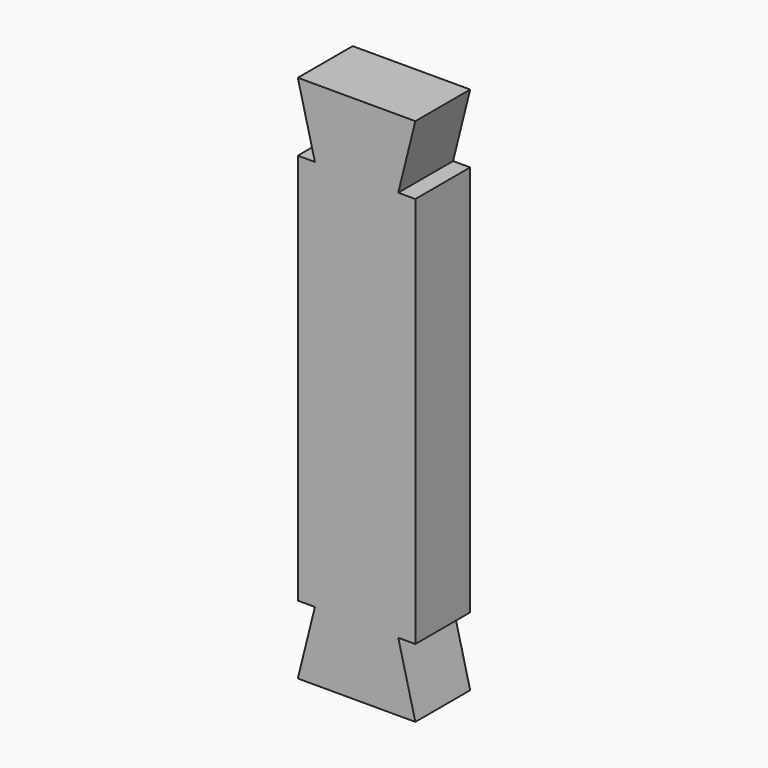
from build123d import *

# Parameters (mm, degrees)
F0_W     = 38.1
F0_H     = 174.625
F1_DEPTH = 22.225
F3_DEPTH = 22.226
F4_DEPTH = 1.5875
F5_DEPTH = 1.5875


with BuildPart() as f1:
    # F0 (on Front) → F1 (new body)
    with BuildSketch(Plane.XZ):
        with Locations((19.05, 87.3125)):
            Rectangle(F0_W, F0_H)
    extrude(amount=F1_DEPTH)

    # F2 (on face) → F3 (cut, through all)
    with BuildSketch(Plane.XZ.offset(22.225)):
        Polygon((5.5413148632, 150.8125), (0, 173.0375), (0, 150.8125), align=None)
        Polygon((38.1, 150.8125), (38.1, 173.0375), (32.5586851368, 150.8125), align=None)
        Polygon((5.5413148632, 23.8125), (0, 23.8125), (0, 1.5875), align=None)
        Polygon((38.1, 1.5875), (38.1, 23.8125), (32.5586851368, 23.8125), align=None)
    extrude(amount=-F3_DEPTH, mode=Mode.SUBTRACT)

    # F4 (cut): a face of the model
    f4_faces = [f1.faces().sort_by_distance(p)[0] for p in [
        (19.05, -11.1125, 174.625),
    ]]
    extrude(f4_faces, amount=-F4_DEPTH, mode=Mode.SUBTRACT)

    # F5 (cut): a face of the model
    f5_faces = [f1.faces().sort_by_distance(p)[0] for p in [
        (19.05, -11.1125, 0),
    ]]
    extrude(f5_faces, amount=-F5_DEPTH, mode=Mode.SUBTRACT)


solid = f1.part
